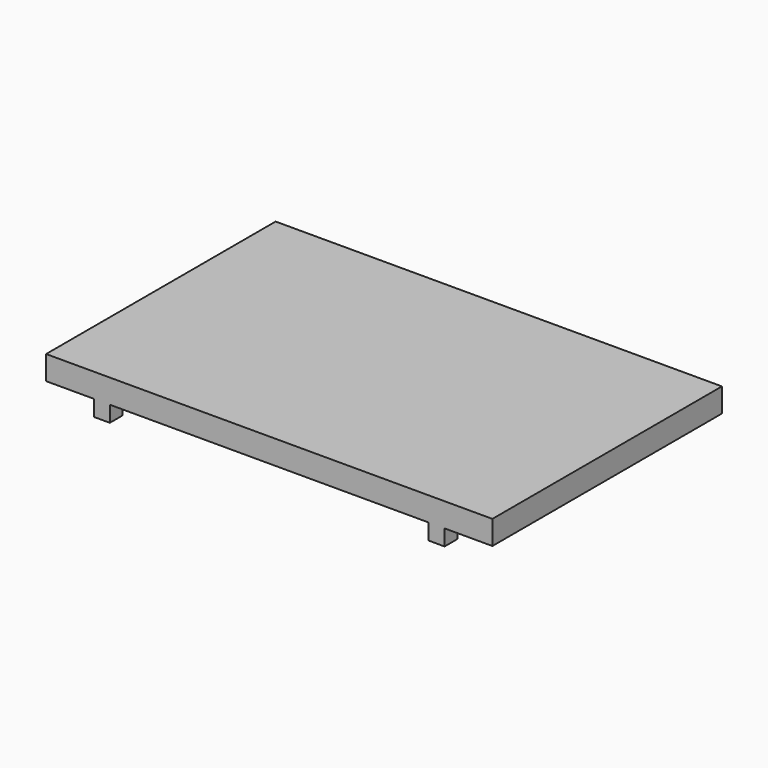
from build123d import *

# Parameters (mm, degrees)
F1_DEPTH = 457.2
F0_W     = 25.4
F0_H     = 25.4
F0_R     = 3.175
F2_DEPTH = 25.4
F3_START = -431.8
F3_DEPTH = 25.4
F4_START = -12.7
F4_DEPTH = 431.8


with BuildPart() as f1:
    # F0 (on Front) → F1 (new body)
    with BuildSketch(Plane.XZ):
        Polygon((711.2, 63.5), (0, 63.5), (0, 25.4), (76.2, 25.4), (101.6, 25.4), (609.6, 25.4), (635, 25.4), (711.2, 25.4), align=None)
    extrude(amount=-F1_DEPTH)

    # F0 (on Front) → F2 (join)
    with BuildSketch(Plane.XZ):
        with Locations((88.9, 12.7)):
            Rectangle(F0_W, F0_H)
        with Locations((88.9, 12.7)):
            Circle(F0_R, mode=Mode.SUBTRACT)
        with Locations((622.3, 12.7)):
            Rectangle(F0_W, F0_H)
        with Locations((622.3, 12.7)):
            Circle(F0_R, mode=Mode.SUBTRACT)
        with Locations((88.9, 12.7)):
            Circle(F0_R)
        with Locations((622.3, 12.7)):
            Circle(F0_R)
    extrude(amount=-F2_DEPTH)

    # F0 (on Front) → F3 (join)
    with BuildSketch(Plane.XZ.offset(F3_START)):
        with Locations((88.9, 12.7)):
            Rectangle(F0_W, F0_H)
        with Locations((88.9, 12.7)):
            Circle(F0_R, mode=Mode.SUBTRACT)
        with Locations((622.3, 12.7)):
            Rectangle(F0_W, F0_H)
        with Locations((622.3, 12.7)):
            Circle(F0_R, mode=Mode.SUBTRACT)
        with Locations((622.3, 12.7)):
            Circle(F0_R)
        with Locations((88.9, 12.7)):
            Circle(F0_R)
    extrude(amount=-F3_DEPTH)

    # F0 (on Front) → F4 (cut)
    with BuildSketch(Plane.XZ.offset(F4_START)):
        with Locations((88.9, 12.7)):
            Circle(F0_R)
        with Locations((622.3, 12.7)):
            Circle(F0_R)
    extrude(amount=-F4_DEPTH, mode=Mode.SUBTRACT)


solid = f1.part
